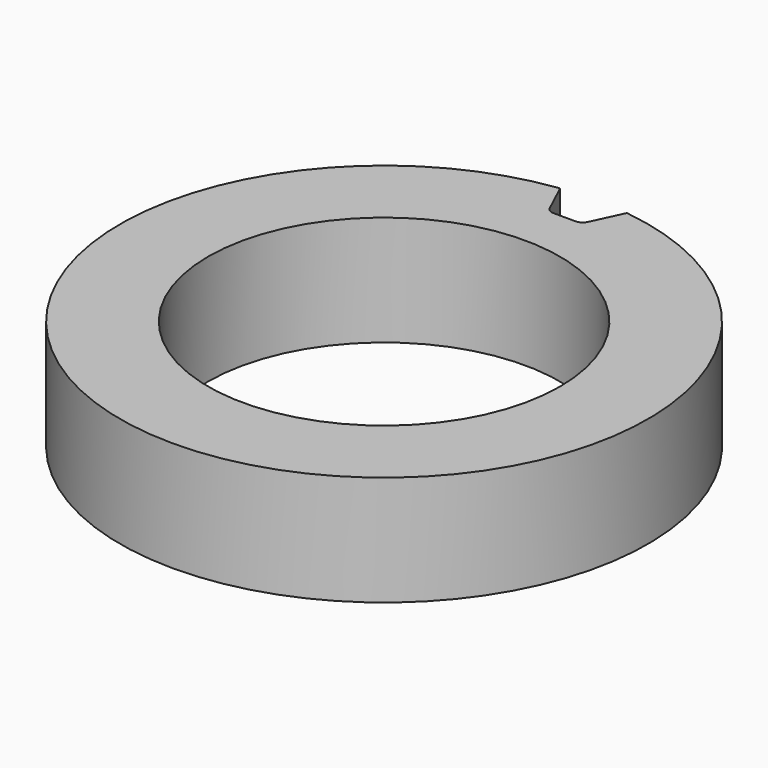
from build123d import *

# Parameters (mm, degrees)
F0_R     = 60
F0_R_2   = 40
F1_DEPTH = 25
F4_DEPTH = 25.001


with BuildPart() as f1:
    # F0 (on Top) → F1 (new body)
    with BuildSketch(Plane.XY):
        Circle(F0_R)
        Circle(F0_R_2, mode=Mode.SUBTRACT)
    extrude(amount=F1_DEPTH)

    # F3 (on Top) + F2 (on face) → F4 (cut, through all)
    with BuildSketch(Plane.XY):
        with BuildLine():
            ThreePointArc((7.58927, 59.51809), (0, 60.215254), (-7.58927, 59.51809))
            Line((-7.58927, 59.51809), (-4.312616, 52.491282))
            ThreePointArc((-4.312616, 52.491282), (-3.574599, 51.649735), (-2.5, 51.336518))
            Line((-2.5, 51.336518), (2.5, 51.336518))
            ThreePointArc((2.5, 51.336518), (3.574599, 51.649735), (4.312616, 52.491282))
            Line((4.312616, 52.491282), (7.58927, 59.51809))
        make_face()
    with BuildSketch(Plane(origin=(0, 0, 0), x_dir=(1, 0, 0), z_dir=(0, 0, -1))):
        with BuildLine():
            Line((-3.065543, -69.518532), (0, -60))
            ThreePointArc((0, -60), (-11.359106, -58.914945), (-22.307369, -55.699024))
            Line((-22.307369, -55.699024), (-22.307369, -65.699024))
            ThreePointArc((-22.307369, -65.699024), (-14.254384, -75.507649), (-3.065543, -69.518532))
        make_face()
    extrude(amount=F4_DEPTH, mode=Mode.SUBTRACT)


solid = f1.part
